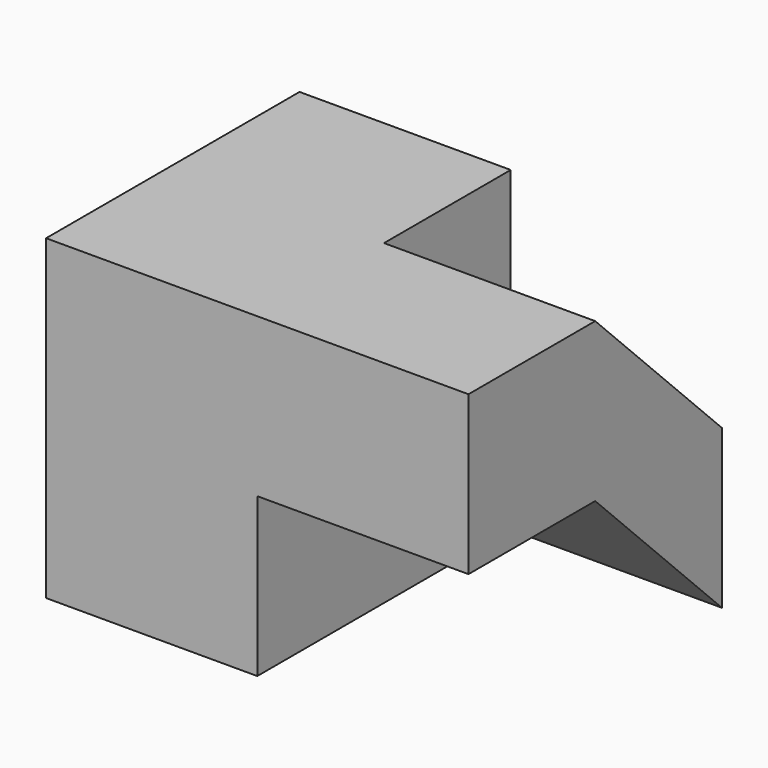
from build123d import *

# Parameters (mm, degrees)
F0_W     = 15
F0_H     = 15
F1_DEPTH = 20
F2_DEPTH = 40
F4_DEPTH = 20
F6_DEPTH = 20


with BuildPart() as f1:
    # F0 (on Right) → F1 (new body)
    with BuildSketch(Plane.YZ):
        with Locations((7.5, 7.5)):
            Rectangle(F0_W, F0_H)
        with Locations((22.5, 7.5)):
            Rectangle(F0_W, F0_H)
        with Locations((7.5, 22.5)):
            Rectangle(F0_W, F0_H)
        with Locations((22.5, 22.5)):
            Rectangle(F0_W, F0_H)
    extrude(amount=F1_DEPTH)

    # F0 (on Right) → F2 (join)
    with BuildSketch(Plane.YZ):
        with Locations((22.5, 7.5)):
            Rectangle(F0_W, F0_H)
        with Locations((22.5, 22.5)):
            Rectangle(F0_W, F0_H)
        with Locations((7.5, 22.5)):
            Rectangle(F0_W, F0_H)
    extrude(amount=F2_DEPTH)

    # F3 (on face) → F4 (cut)
    with BuildSketch(Plane.YZ.offset(40)):
        Polygon((30, 30), (15, 30), (30, 15), align=None)
    extrude(amount=-F4_DEPTH, mode=Mode.SUBTRACT)

    # F5 (on face) → F6 (cut)
    with BuildSketch(Plane.YZ.offset(40)):
        Polygon((30, 0), (15, 15), (15, 0), align=None)
    extrude(amount=-F6_DEPTH, mode=Mode.SUBTRACT)


solid = f1.part
